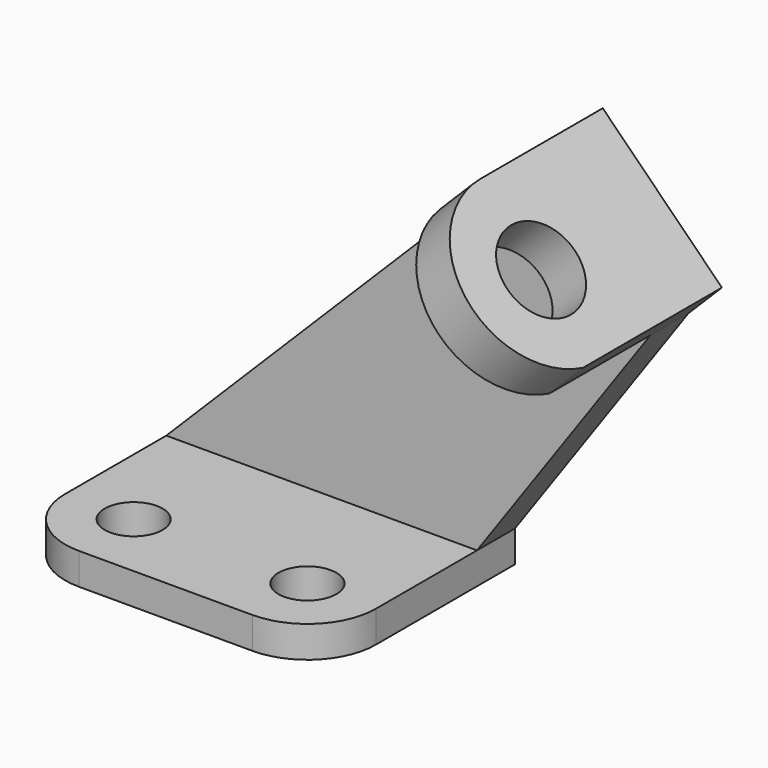
from build123d import *

# Parameters (mm, degrees)
F0_R     = 5.5
F1_DEPTH = 6
F3_DEPTH = 9
F4_R     = 8
F5_DEPTH = 9


with BuildPart() as f1:
    # F0 (on Top) → F1 (new body)
    with BuildSketch(Plane.XY):
        with BuildLine():
            Line((59, 24), (0, 24))
            Line((0, 24), (0, 0))
            ThreePointArc((0, 0), (3.807612, -9.192388), (13, -13))
            Line((13, -13), (46, -13))
            ThreePointArc((46, -13), (55.192388, -9.192388), (59, 0))
            Line((59, 0), (59, 24))
        make_face()
        with Locations((13, 0)):
            Circle(F0_R, mode=Mode.SUBTRACT)
        with Locations((46, 0)):
            Circle(F0_R, mode=Mode.SUBTRACT)
    extrude(amount=F1_DEPTH)

    # F2 (on face) → F3 (join)
    with BuildSketch(Plane(origin=(0, 24, 0), x_dir=(-1, 0, 0), z_dir=(0, 1, 0))):
        Polygon((-91.941125, 52.686292), (-59, 6), (-59, 0), (0, 0), (0, 6), (-69.313708, 75.313708), align=None)
    extrude(amount=F3_DEPTH)

    # F4 (on face) → F5 (join)
    with BuildSketch(Plane(origin=(72.313708, 0, 72.313708), x_dir=(0, 1, 0), z_dir=(0.707107, 0, 0.707107))):
        with BuildLine():
            Line((33, 4.242641), (4, 4.242641))
            ThreePointArc((4, 4.242641), (-12.124515, -9.991795), (0, -27.757359))
            Line((0, -27.757359), (33, -27.757359))
            Line((33, -27.757359), (33, 4.242641))
        make_face()
        with Locations((4, -12.007359)):
            Circle(F4_R, mode=Mode.SUBTRACT)
    extrude(amount=F5_DEPTH)


solid = f1.part
